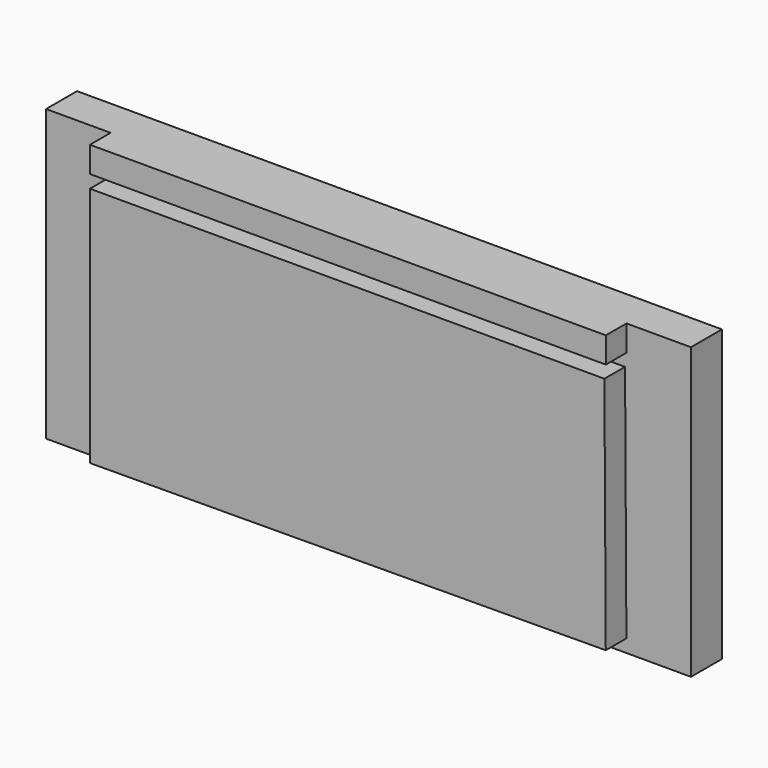
from build123d import *

# Parameters (mm, degrees)
F0_W     = 160
F0_H     = 8
F1_DEPTH = 12
F2_DEPTH = 20
F3_W     = 8
F3_H     = 4
F4_DEPTH = 159.9984091469


with BuildPart() as f1:
    # F0 (on Front) → F1 (new body)
    with BuildSketch(Plane.XZ):
        Polygon((-65.9003738091, 63.3540591938), (-65.9003738091, -14.6459408062), (94.0996261909, -14.6459408062), (93.6557352543, 63.3540591938), align=None)
        Polygon((-85.9003738091, -14.6459408062), (-65.9003738091, -14.6459408062), (-65.9003738091, 63.3540591938), (93.6557352543, 63.3540591938), (94.0996261909, -14.6459408062), (114.0996261909, -14.6459408062), (114.0996261909, 75.3540591938), (94.0996261909, 75.3540591938), (94.0996261909, 67.3540591938), (-65.9003738091, 67.3540591938), (-65.9003738091, 75.3540591938), (-85.9003738091, 75.3540591938), align=None)
        with Locations((14.0996261909, 71.3540591938)):
            Rectangle(F0_W, F0_H)
    extrude(amount=F1_DEPTH)

    # F0 (on Front) → F2 (join)
    with BuildSketch(Plane.XZ):
        with Locations((14.0996261909, 71.3540591938)):
            Rectangle(F0_W, F0_H)
        Polygon((-65.9003738091, 63.3540591938), (-65.9003738091, -14.6459408062), (94.0996261909, -14.6459408062), (93.6557352543, 63.3540591938), align=None)
    extrude(amount=F2_DEPTH)

    # F3 (on face) → F4 (cut, through all)
    with BuildSketch(Plane(origin=(94.0132327131, 0, 0.5350207939), x_dir=(0, 1, 0), z_dir=(0.9999838072, 0, 0.0056908173))):
        with Locations((-16, -13.1812074268)):
            Rectangle(F3_W, F3_H)
    extrude(amount=-F4_DEPTH, mode=Mode.SUBTRACT)


solid = f1.part
